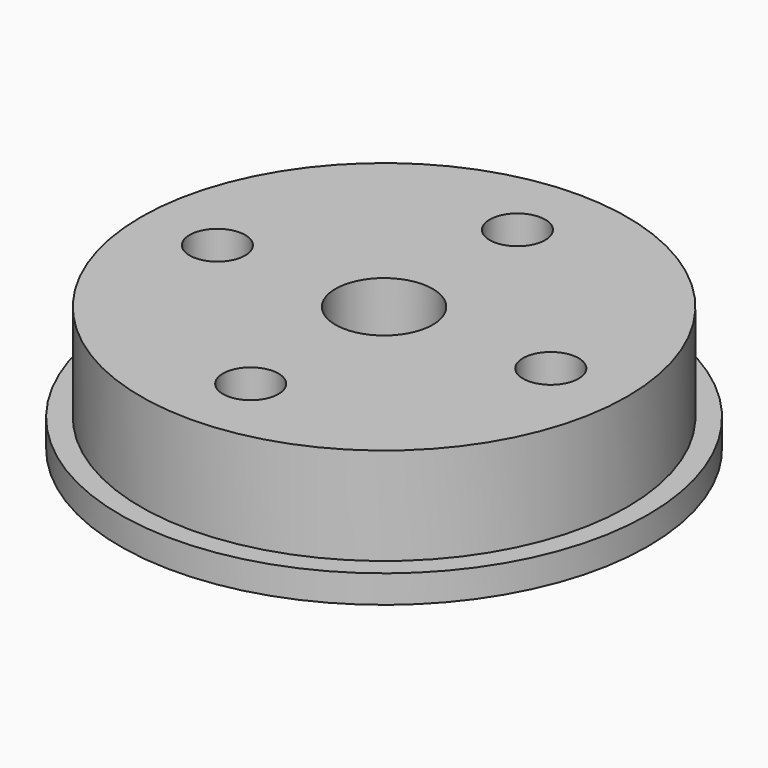
from build123d import *

# Parameters (mm, degrees)
F0_R     = 19
F0_R_2   = 3.5
F1_DEPTH = 2
F2_R     = 17.5
F2_R_2   = 3.5
F3_DEPTH = 7
F4_R     = 2
F5_DEPTH = 25


with BuildPart() as f1:
    # F0 (on Top) → F1 (new body)
    with BuildSketch(Plane.XY):
        Circle(F0_R)
        Circle(F0_R_2, mode=Mode.SUBTRACT)
    extrude(amount=F1_DEPTH)

    # F2 (on face) → F3 (join)
    with BuildSketch(Plane.XY.offset(2)):
        Circle(F2_R)
        Circle(F2_R_2, mode=Mode.SUBTRACT)
    extrude(amount=F3_DEPTH)

    # F4 (on face) → F5 (cut)
    with BuildSketch(Plane.XY.offset(9)):
        with Locations((0, 12)):
            Circle(F4_R)
        with Locations((-12, 0)):
            Circle(F4_R)
        with Locations((0, -12)):
            Circle(F4_R)
        with Locations((12, 0)):
            Circle(F4_R)
    extrude(amount=-F5_DEPTH, mode=Mode.SUBTRACT)


solid = f1.part
